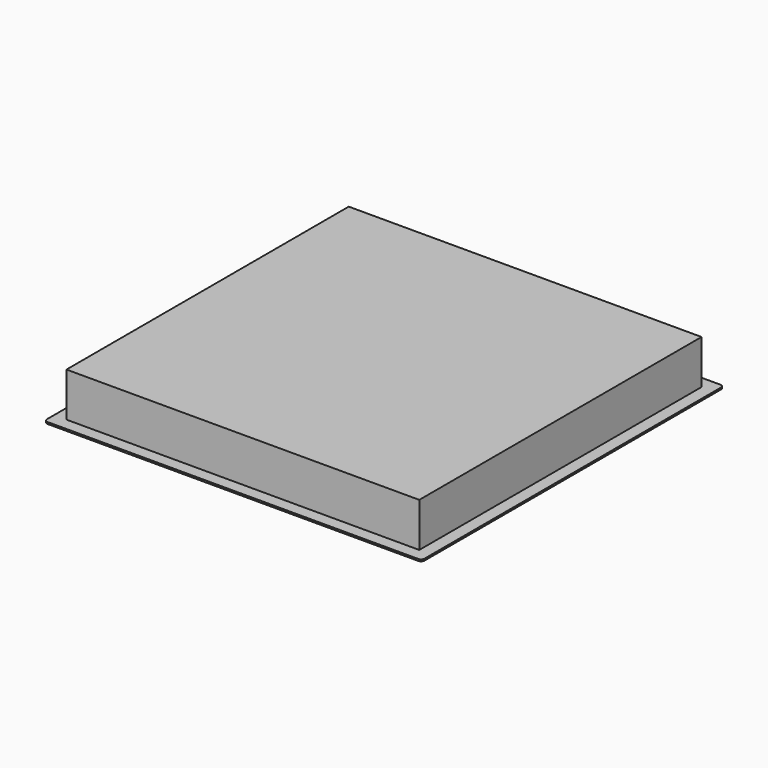
from build123d import *

# Parameters (mm, degrees)
F0_W     = 214
F0_H     = 214
F1_DEPTH = 1
F2_R     = 2
F3_W     = 200
F3_H     = 200
F4_DEPTH = 25


with BuildPart() as f1:
    # F0 (on Top) → F1 (new body)
    with BuildSketch(Plane.XY):
        Rectangle(F0_W, F0_H)
    extrude(amount=F1_DEPTH)

    # F2
    f2_edges = [f1.edges().sort_by_distance(p)[0] for p in [
        (-107, -107, 0.5),
        (107, -107, 0.5),
        (107, 107, 0.5),
        (-107, 107, 0.5),
    ]]
    fillet(f2_edges, radius=F2_R)


with BuildPart() as f4:
    # F3 (on face) → F4 (new body)
    with BuildSketch(Plane.XY.offset(1)):
        Rectangle(F3_W, F3_H)
    extrude(amount=F4_DEPTH)


solid = Compound([f1.part, f4.part])
